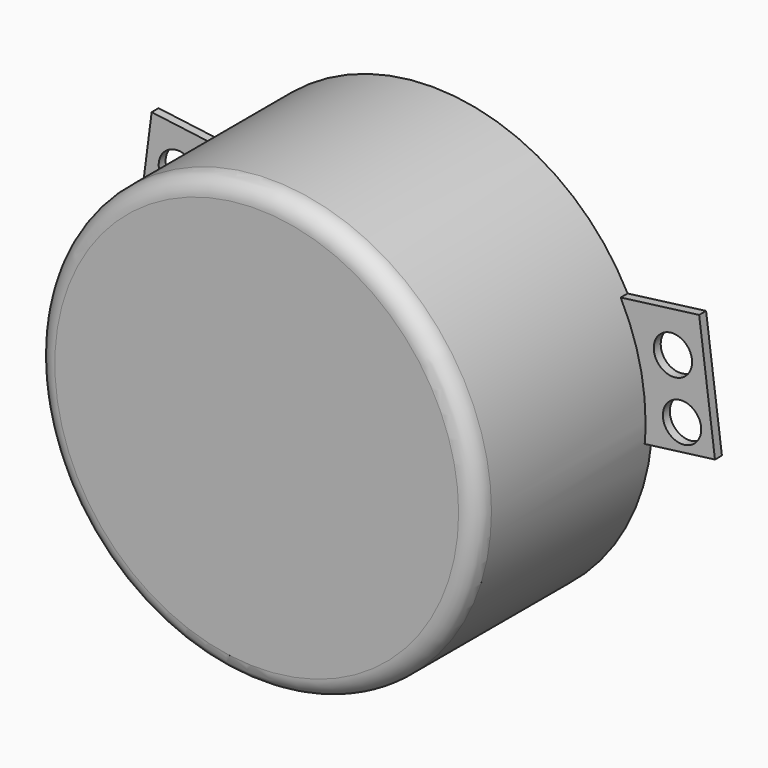
from build123d import *

# Parameters (mm, degrees)
F0_R      = 24.511
F1_DEPTH  = 24.4348
F2_R      = 3.4925
F3_DEPTH  = 18.415
F4_R      = 6.0071
F5_DEPTH  = 1.778
F6_SIZE   = 1.27
F7_R      = 1.5367
F8_DEPTH  = 12.7
F9_R      = 2.1336
F10_DEPTH = 0.9652
F11_R     = 2.032


with BuildPart() as f1:
    # F0 (on Front) → F1 (new body)
    with BuildSketch(Plane.XZ):
        Circle(F0_R)
    extrude(amount=F1_DEPTH)

    # F2 (on face) → F3 (join)
    with BuildSketch(Plane(origin=(0, 0, 0), x_dir=(-1, 0, 0), z_dir=(0, 1, 0))):
        with Locations((0, -11.7475)):
            Circle(F2_R)
    extrude(amount=F3_DEPTH)

    # F4 (on face) → F5 (join)
    with BuildSketch(Plane(origin=(0, 0, 0), x_dir=(-1, 0, 0), z_dir=(0, 1, 0))):
        with Locations((0, -11.7475)):
            Circle(F4_R)
    extrude(amount=F5_DEPTH)

    # F6
    f6_edges = [f1.edges().sort_by_distance(p)[0] for p in [
        (3.4925, 18.415, -11.7475),
    ]]
    chamfer(f6_edges, length=F6_SIZE)

    # F7 (on Right) → F8 (cut, symmetric)
    with BuildSketch(Plane.YZ):
        with Locations((14.605, -11.811)):
            Circle(F7_R)
    extrude(amount=F8_DEPTH, both=True, mode=Mode.SUBTRACT)

    # F9 (on face) → F10 (join)
    with BuildSketch(Plane(origin=(0, 0, 0), x_dir=(-1, 0, 0), z_dir=(0, 1, 0))):
        with BuildLine():
            ThreePointArc((21.7190408618, 11.3610028186), (24.0387512815, 4.788272948), (24.414607206, -2.1716528208))
            Line((24.414607206, -2.1716528208), (32.2426542084, -1.1577105466))
            Line((32.2426542084, -1.1577105466), (30.4742566429, 12.4950383448))
            Line((30.4742566429, 12.4950383448), (21.7190408618, 11.3610028186))
        make_face()
        with Locations((28.575, 1.2954)):
            Circle(F9_R, mode=Mode.SUBTRACT)
        with Locations((27.559, 7.5635930411)):
            Circle(F9_R, mode=Mode.SUBTRACT)
        with BuildLine():
            ThreePointArc((-24.414607206, -2.1716528208), (-24.044022755, 4.7617319075), (-21.7440723776, 11.3130207036))
            Line((-21.7440723776, 11.3130207036), (-30.4807820952, 12.4446591976))
            Line((-30.4807820952, 12.4446591976), (-32.2426542084, -1.1577105466))
            Line((-32.2426542084, -1.1577105466), (-24.414607206, -2.1716528208))
        make_face()
        with Locations((-28.575, 1.2954)):
            Circle(F9_R, mode=Mode.SUBTRACT)
        with Locations((-27.559, 7.5635930411)):
            Circle(F9_R, mode=Mode.SUBTRACT)
    extrude(amount=-F10_DEPTH)

    # F11
    f11_edges = [f1.edges().sort_by_distance(p)[0] for p in [
        (-24.511, -24.4348, 0),
    ]]
    fillet(f11_edges, radius=F11_R)


solid = f1.part
